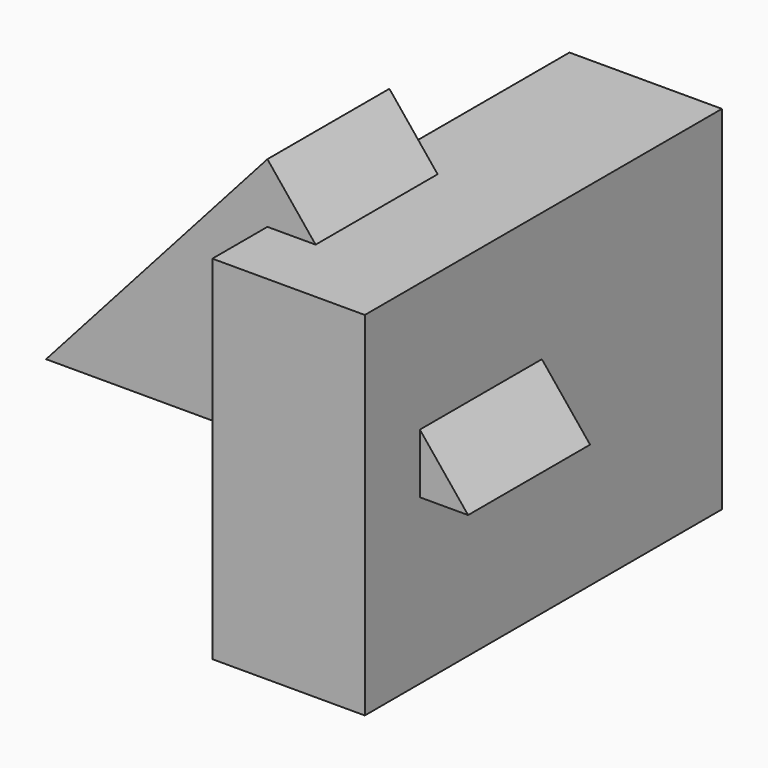
from build123d import *

# Parameters (mm, degrees)
F2_DEPTH = 25.4
F1_W     = 74.359335
F1_H     = 58.737623
F3_DEPTH = 25.4


with BuildPart() as f2:
    # F0 (on Front) → F2 (new body)
    with BuildSketch(Plane.XZ):
        Polygon((-36.869742, 0), (0, 0), (0, 41.327007), align=None)
        Polygon((0, 41.327007), (0, 0), (33.427946, 0), align=None)
    extrude(amount=F2_DEPTH)

    # F1 (on Right) → F3 (join)
    with BuildSketch(Plane.YZ):
        with Locations((0.312437, 2.030822)):
            Rectangle(F1_W, F1_H)
    extrude(amount=F3_DEPTH)


solid = f2.part
